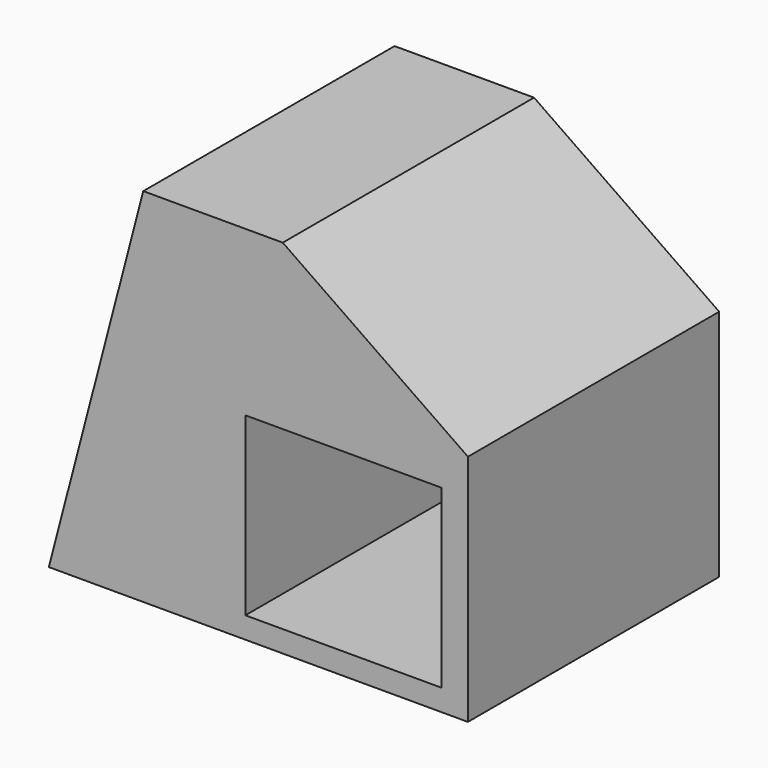
from build123d import *

# Parameters (mm, degrees)
F0_W     = 57.563878
F0_H     = 51.690006
F1_DEPTH = 92.202


with BuildPart() as f1:
    # F0 (on Front) → F1 (new body)
    with BuildSketch(Plane.XZ):
        Polygon((27.731147, 106.186851), (0, 0), (123.030551, 0), (123.030551, 68.541136), (68.68014, 106.186851), align=None)
        with Locations((86.492654, 32.15941)):
            Rectangle(F0_W, F0_H, mode=Mode.SUBTRACT)
    extrude(amount=F1_DEPTH)


solid = f1.part
